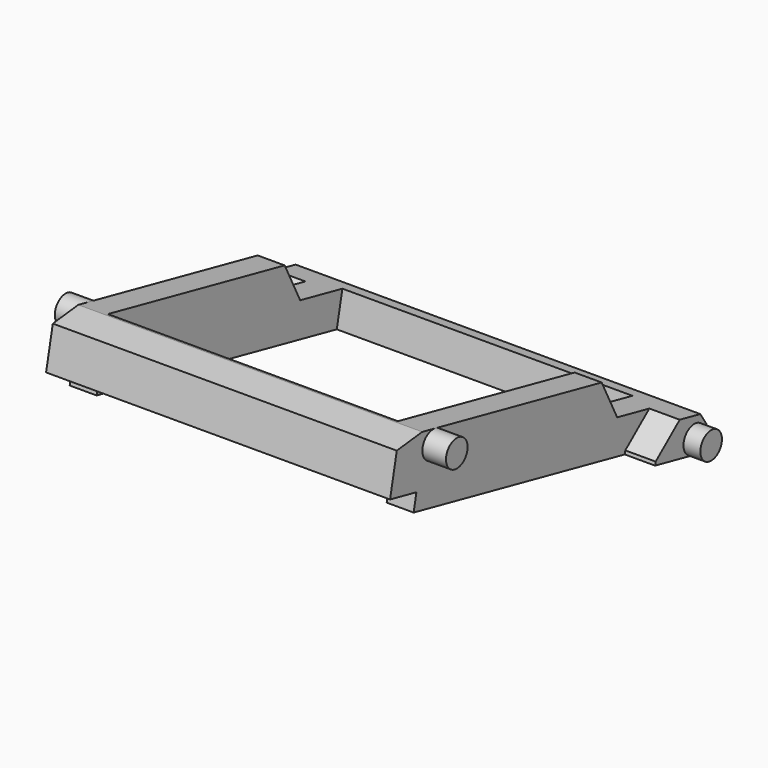
from build123d import *

# Parameters (mm, degrees)
BOX058_W                  = 0.8
BOX058_H                  = 7.5
BOX058_DEPTH              = 2
CHAMFER029_SIZE2          = 0.8
CHAMFER029_SIZE           = 1
BOX057_W                  = 0.8
BOX057_H                  = 7.5
BOX057_DEPTH              = 2
CHAMFER030_SIZE2          = 0.8
CHAMFER030_SIZE           = 1
BOX061_W                  = 10.2
BOX061_H                  = 0.7
BOX061_DEPTH              = 1
CHAMFER033_SIZE           = 0.3
CYLINDER013_R             = 0.4
CYLINDER013_DEPTH         = 0.5
CYLINDER014_R             = 0.4
CYLINDER014_DEPTH         = 0.5
CYLINDER015_R             = 0.4
CYLINDER015_DEPTH         = 0.7
CYLINDER016_R             = 0.4
CYLINDER016_DEPTH         = 0.7
BOX059_W                  = 0.8
BOX059_H                  = 1.6
BOX059_DEPTH              = 1
BOX060_W                  = 0.8
BOX060_H                  = 1.6
BOX060_DEPTH              = 1
BOX065_W                  = 0.9
BOX065_H                  = 1.8
BOX065_DEPTH              = 1
CHAMFER041_1_SIZE2        = 0.72
CHAMFER041_1_SIZE         = 0.9
CHAMFER041_2_SIZE         = 0.3
BOX064_W                  = 0.9
BOX064_H                  = 1.8
BOX064_DEPTH              = 1
CHAMFER042_1_SIZE2        = 0.72
CHAMFER042_1_SIZE         = 0.9
CHAMFER042_2_SIZE         = 0.3
BOX056_W                  = 10.2
BOX056_H                  = 1
BOX056_DEPTH              = 1.5
CHAMFER028_SIZE2          = 0.9
CHAMFER028_SIZE           = 0.3
FUSION014_PLACEMENT_ANGLE = 12


with BuildPart() as obj1:
    # Box058 → Box058 (new body)
    with BuildSketch(Plane(origin=(-5.1, -6, 0.5), x_dir=(1, 0, 0), z_dir=(0, 0, 1))):
        with Locations((0.4, 3.75)):
            Rectangle(BOX058_W, BOX058_H)
    extrude(amount=BOX058_DEPTH)

    # Chamfer029
    chamfer029_edges = [obj1.edges().sort_by_distance(p)[0] for p in [
        (-4.7, 1.5, 2.5),
    ]]
    chamfer029_side = obj1.faces().sort_by_distance((-4.7, 1.5, 1.5))[0]
    chamfer(chamfer029_edges, length=CHAMFER029_SIZE, length2=CHAMFER029_SIZE2, reference=chamfer029_side)


with BuildPart() as obj2:
    # Box057 → Box057 (new body)
    with BuildSketch(Plane(origin=(4.3, -6, 0.5), x_dir=(1, 0, 0), z_dir=(0, 0, 1))):
        with Locations((0.4, 3.75)):
            Rectangle(BOX057_W, BOX057_H)
    extrude(amount=BOX057_DEPTH)

    # Chamfer030
    chamfer030_edges = [obj2.edges().sort_by_distance(p)[0] for p in [
        (4.7, 1.5, 2.5),
    ]]
    chamfer030_side = obj2.faces().sort_by_distance((4.7, 1.5, 1.5))[0]
    chamfer(chamfer030_edges, length=CHAMFER030_SIZE, length2=CHAMFER030_SIZE2, reference=chamfer030_side)


with BuildPart() as obj3:
    # Box061 → Box061 (new body)
    with BuildSketch(Plane(origin=(-5.1, 3.1, 0.5), x_dir=(1, 0, 0), z_dir=(0, 0, 1))):
        with Locations((5.1, 0.35)):
            Rectangle(BOX061_W, BOX061_H)
    extrude(amount=BOX061_DEPTH)

    # Chamfer033
    chamfer033_edges = [obj3.edges().sort_by_distance(p)[0] for p in [
        (0, 3.8, 0.5),
        (0, 3.8, 1.5),
    ]]
    chamfer(chamfer033_edges, length=CHAMFER033_SIZE)


with BuildPart() as obj4:
    # Cylinder013 → Cylinder013 (new body)
    with BuildSketch(Plane(origin=(-6.5, 3.4, 0.9), x_dir=(0, 0, -1), z_dir=(1, 0, 0))):
        Circle(CYLINDER013_R)
    extrude(amount=CYLINDER013_DEPTH)


with BuildPart() as obj5:
    # Cylinder014 → Cylinder014 (new body)
    with BuildSketch(Plane(origin=(6, 3.4, 0.9), x_dir=(0, 0, -1), z_dir=(1, 0, 0))):
        Circle(CYLINDER014_R)
    extrude(amount=CYLINDER014_DEPTH)


with BuildPart() as obj6:
    # Cylinder015 → Cylinder015 (new body)
    with BuildSketch(Plane(origin=(-5.8, -5.6, 2.1), x_dir=(0, 0, -1), z_dir=(1, 0, 0))):
        Circle(CYLINDER015_R)
    extrude(amount=CYLINDER015_DEPTH)


with BuildPart() as obj7:
    # Cylinder016 → Cylinder016 (new body)
    with BuildSketch(Plane(origin=(5.1, -5.6, 2.1), x_dir=(0, 0, -1), z_dir=(1, 0, 0))):
        Circle(CYLINDER016_R)
    extrude(amount=CYLINDER016_DEPTH)


with BuildPart() as obj8:
    # Box059 → Box059 (new body)
    with BuildSketch(Plane(origin=(-5.1, 1.5, 0.5), x_dir=(1, 0, 0), z_dir=(0, 0, 1))):
        with Locations((0.4, 0.8)):
            Rectangle(BOX059_W, BOX059_H)
    extrude(amount=BOX059_DEPTH)


with BuildPart() as obj9:
    # Box060 → Box060 (new body)
    with BuildSketch(Plane(origin=(4.3, 1.5, 0.5), x_dir=(1, 0, 0), z_dir=(0, 0, 1))):
        with Locations((0.4, 0.8)):
            Rectangle(BOX060_W, BOX060_H)
    extrude(amount=BOX060_DEPTH)


with BuildPart() as obj10:
    # Box065 → Box065 (new body)
    with BuildSketch(Plane(origin=(-6, 2, 0.5), x_dir=(1, 0, 0), z_dir=(0, 0, 1))):
        with Locations((0.45, 0.9)):
            Rectangle(BOX065_W, BOX065_H)
    extrude(amount=BOX065_DEPTH)

    # Chamfer041 1
    chamfer041_1_edges = [obj10.edges().sort_by_distance(p)[0] for p in [
        (-5.55, 2, 1.5),
    ]]
    chamfer041_1_side = obj10.faces().sort_by_distance((-5.55, 2, 1))[0]
    chamfer(chamfer041_1_edges, length=CHAMFER041_1_SIZE, length2=CHAMFER041_1_SIZE2, reference=chamfer041_1_side)

    # Chamfer041 2
    chamfer041_2_edges = [obj10.edges().sort_by_distance(p)[0] for p in [
        (-5.55, 3.8, 0.5),
        (-5.55, 3.8, 1.5),
    ]]
    chamfer(chamfer041_2_edges, length=CHAMFER041_2_SIZE)


with BuildPart() as obj11:
    # Box064 → Box064 (new body)
    with BuildSketch(Plane(origin=(5.1, 2, 0.5), x_dir=(1, 0, 0), z_dir=(0, 0, 1))):
        with Locations((0.45, 0.9)):
            Rectangle(BOX064_W, BOX064_H)
    extrude(amount=BOX064_DEPTH)

    # Chamfer042 1
    chamfer042_1_edges = [obj11.edges().sort_by_distance(p)[0] for p in [
        (5.55, 2, 1.5),
    ]]
    chamfer042_1_side = obj11.faces().sort_by_distance((5.55, 2, 1))[0]
    chamfer(chamfer042_1_edges, length=CHAMFER042_1_SIZE, length2=CHAMFER042_1_SIZE2, reference=chamfer042_1_side)

    # Chamfer042 2
    chamfer042_2_edges = [obj11.edges().sort_by_distance(p)[0] for p in [
        (5.55, 3.8, 0.5),
        (5.55, 3.8, 1.5),
    ]]
    chamfer(chamfer042_2_edges, length=CHAMFER042_2_SIZE)


with BuildPart() as obj12:
    # Box056 → Box056 (new body)
    with BuildSketch(Plane(origin=(-5.1, -7, 1), x_dir=(1, 0, 0), z_dir=(0, 0, 1))):
        with Locations((5.1, 0.5)):
            Rectangle(BOX056_W, BOX056_H)
    extrude(amount=BOX056_DEPTH)

    # Chamfer028
    chamfer028_edges = [obj12.edges().sort_by_distance(p)[0] for p in [
        (0, -7, 2.5),
    ]]
    chamfer028_side = obj12.faces().sort_by_distance((0, -7, 1.75))[0]
    chamfer(chamfer028_edges, length=CHAMFER028_SIZE, length2=CHAMFER028_SIZE2, reference=chamfer028_side)

    # Fusion014: union obj1, obj2, obj3, obj4, obj5, obj6, obj7, obj8, obj9, obj10, obj11
    add(obj1.part)
    add(obj2.part)
    add(obj3.part)
    add(obj4.part)
    add(obj5.part)
    add(obj6.part)
    add(obj7.part)
    add(obj8.part)
    add(obj9.part)
    add(obj10.part)
    add(obj11.part)


with BuildPart() as obj12_1:
    # Fusion014 placement: moved
    add(obj12.part.moved(Location((0, 0, 0.769273))).rotate(Axis((0, 0, 0.769273), (-1, 0, 0)), FUSION014_PLACEMENT_ANGLE))


solid = obj12_1.part
